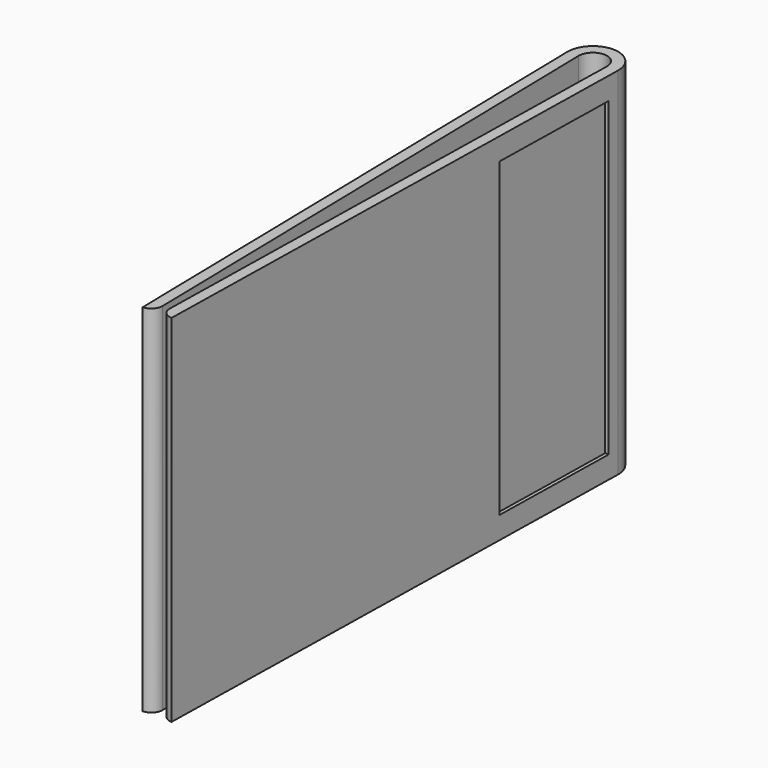
from build123d import *

# Parameters (mm, degrees)
F1_DEPTH = 25.4
F2_W     = 9.525
F2_H     = 22.225
F3_DEPTH = 0.254


with BuildPart() as f1:
    # F0 (on Top) → F1 (new body)
    with BuildSketch(Plane.XY):
        with BuildLine():
            ThreePointArc((-1.015796583, -0.020329831), (0, 1.016), (1.015796583, -0.020329831))
            Line((1.015796583, -0.020329831), (0.254, -38.0841173196))
            ThreePointArc((0.254, -38.0841173196), (0.4752066949, -38.6499228834), (1.0317084, -38.8935910804))
            Line((1.0317084, -38.8935910804), (1.8093876634, -0.0362125114))
            ThreePointArc((1.8093876634, -0.0362125114), (0, 1.80975), (-1.8093876634, -0.0362125114))
            Line((-1.8093876634, -0.0362125114), (-1.0317084, -38.8935910804))
            ThreePointArc((-1.0317084, -38.8935910804), (-0.4752066949, -38.6499228834), (-0.254, -38.0841173196))
            Line((-0.254, -38.0841173196), (-1.015796583, -0.020329831))
        make_face()
    extrude(amount=F1_DEPTH)

    # F2 (on face) → F3 (cut)
    with BuildSketch(Plane(origin=(1.8093876634, -0.0362125114, 0), x_dir=(0.0200096762, 0.9997997864, 0), z_dir=(0.9997997864, -0.0200096762, 0))):
        with Locations((-5.55625, 12.7)):
            Rectangle(F2_W, F2_H)
    extrude(amount=-F3_DEPTH, mode=Mode.SUBTRACT)


solid = f1.part
